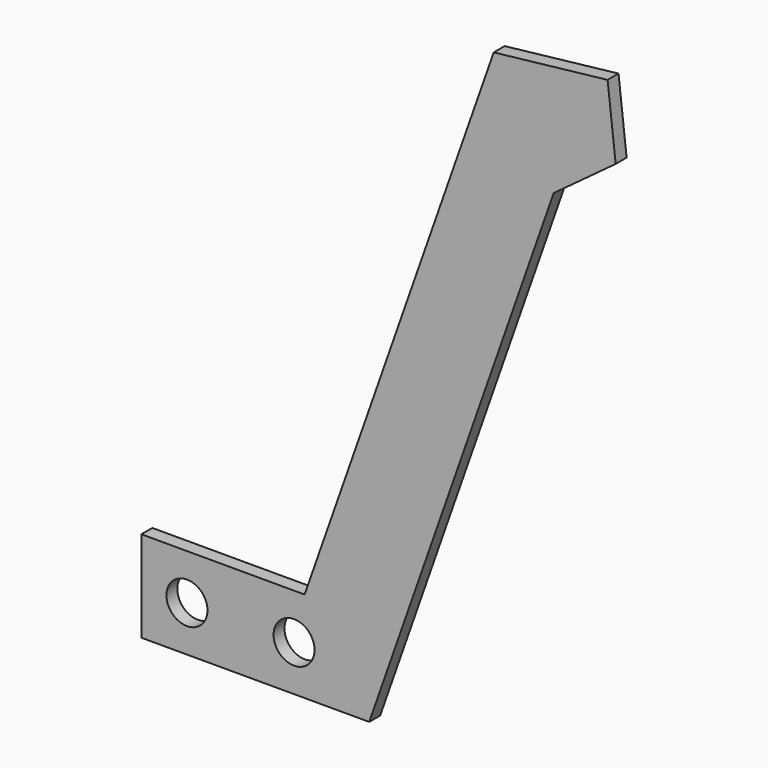
from build123d import *

# Parameters (mm, degrees)
F0_W     = 50
F0_H     = 20
F1_DEPTH = 3
F2_R     = 4.5
F3_DEPTH = 3.001
F5_DEPTH = 3


with BuildPart() as f1:
    # F0 (on Front) → F1 (new body)
    with BuildSketch(Plane.XZ):
        with Locations((25, 10)):
            Rectangle(F0_W, F0_H)
    extrude(amount=F1_DEPTH)

    # F2 (on face) → F3 (cut, through all)
    with BuildSketch(Plane.XZ.offset(3)):
        with Locations((10, 10)):
            Circle(F2_R)
        with Locations((33.5, 10)):
            Circle(F2_R)
    extrude(amount=-F3_DEPTH, mode=Mode.SUBTRACT)

    # F4 (on face) → F5 (join, through all)
    with BuildSketch(Plane.XZ.offset(3)):
        Polygon((50, 20), (50, 0), (90.476949, 115.33643), (104.084845, 125.385415), (102.314374, 141.059241), (77.317478, 138.235662), (35.823053, 20), align=None)
    extrude(amount=-F5_DEPTH)


solid = f1.part
